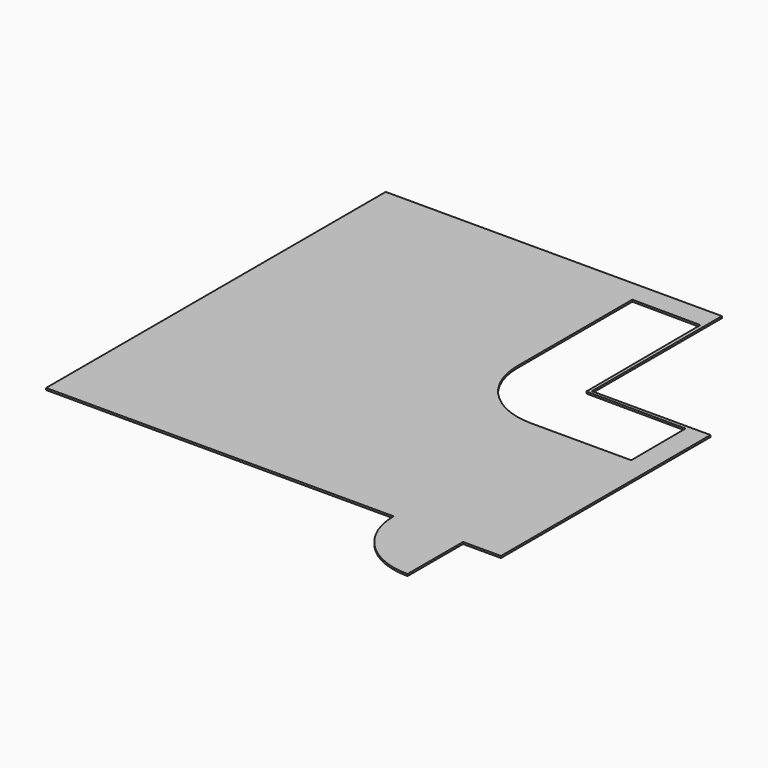
from build123d import *

# Parameters (mm, degrees)
F1_DEPTH = 25


with BuildPart() as f1:
    # F0 (on Top) → F1 (new body)
    with BuildSketch(Plane.XY):
        with BuildLine():
            Line((3485, 0), (0, 0))
            Line((0, 0), (0, -5600))
            Line((0, -5600), (4584.653106, -5600))
            ThreePointArc((4584.653106, -5600), (4852.752004, -6247.247996), (5500, -6515.346894))
            Line((5500, -6515.346894), (5500, -5600))
            Line((5500, -5600), (6000, -5600))
            Line((6000, -5600), (6000, -3095))
            Line((6000, -3095), (5714.132891, -3095))
            Line((5714.132891, -3095), (5424.146789, -3095))
            Line((5424.146789, -3095), (5134.160687, -3095))
            Line((5134.160687, -3095), (4840.022515, -3095))
            Line((4840.022515, -3095), (4395, -3095))
            ThreePointArc((4395, -3095), (3751.532829, -2828.467171), (3485, -2185))
            Line((3485, -2185), (3485, -1962.5))
            Line((3485, -1962.5), (3485, -1672.5))
            Line((3485, -1672.5), (3485, -1382.5))
            Line((3485, -1382.5), (3485, -1092.5))
            Line((3485, -1092.5), (3485, -870))
            Line((3485, -870), (3485, -580))
            Line((3485, -580), (3485, -290))
            Line((3485, -290), (3485, 0))
        make_face()
        Polygon((4385, 0), (3485, 0), (3485, -290), (4386.352933, -295.615906), align=None)
        Polygon((4434.99903, -0.31152), (4385, 0), (4386.352933, -295.615906), (4387.680202, -585.624176), (4388.962759, -865.862871), (4390.025807, -1098.13879), (4391.353076, -1388.14706), (4392.680345, -1678.155329), (4394.007614, -1968.163599), (4395, -2185), (4434.99903, -2185.249215), (4434.99903, -2145.000524), align=None)
        Polygon((5999.771169, -2145.000524), (4434.99903, -2145.000524), (4434.99903, -2185.249215), (4840.022515, -2187.772726), (5130.016886, -2189.579544), (5420.011257, -2191.386363), (5710.005629, -2193.193181), (6000, -2195), align=None)
        Polygon((5714.132891, -3095), (6000, -3095), (6000, -2195), (5710.005629, -2193.193181), align=None)
    extrude(amount=F1_DEPTH)


solid = f1.part
